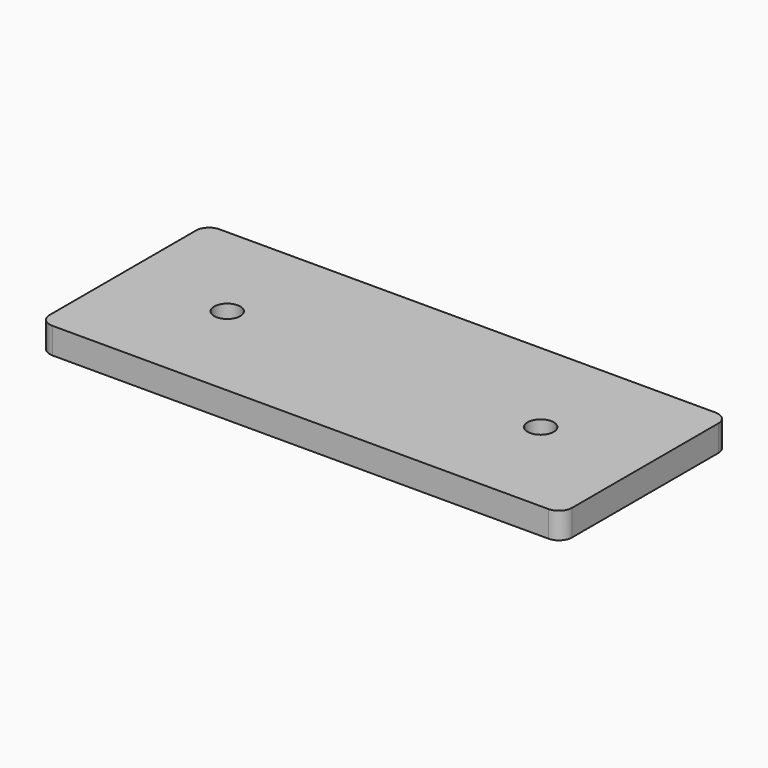
from build123d import *

# Parameters (mm, degrees)
F1_DEPTH = 12.7
F2_R     = 6.35
F3_DEPTH = 12.701


with BuildPart() as f1:
    # F0 (on Top) → F1 (new body)
    with BuildSketch(Plane.XY):
        with BuildLine():
            ThreePointArc((0, 6.35), (1.859872, 1.859872), (6.35, 0))
            Line((6.35, 0), (247.65, 0))
            ThreePointArc((247.65, 0), (252.140128, 1.859872), (254, 6.35))
            Line((254, 6.35), (254, 95.25))
            ThreePointArc((254, 95.25), (252.140128, 99.740128), (247.65, 101.6))
            Line((247.65, 101.6), (6.35, 101.6))
            ThreePointArc((6.35, 101.6), (1.859872, 99.740128), (0, 95.25))
            Line((0, 95.25), (0, 6.35))
        make_face()
    extrude(amount=F1_DEPTH)

    # F2 (on face) → F3 (cut, through all)
    with BuildSketch(Plane.XY.offset(12.7)):
        with Locations((50.8, 50.8)):
            Circle(F2_R)
        with Locations((203.2, 50.8)):
            Circle(F2_R)
    extrude(amount=-F3_DEPTH, mode=Mode.SUBTRACT)


solid = f1.part
